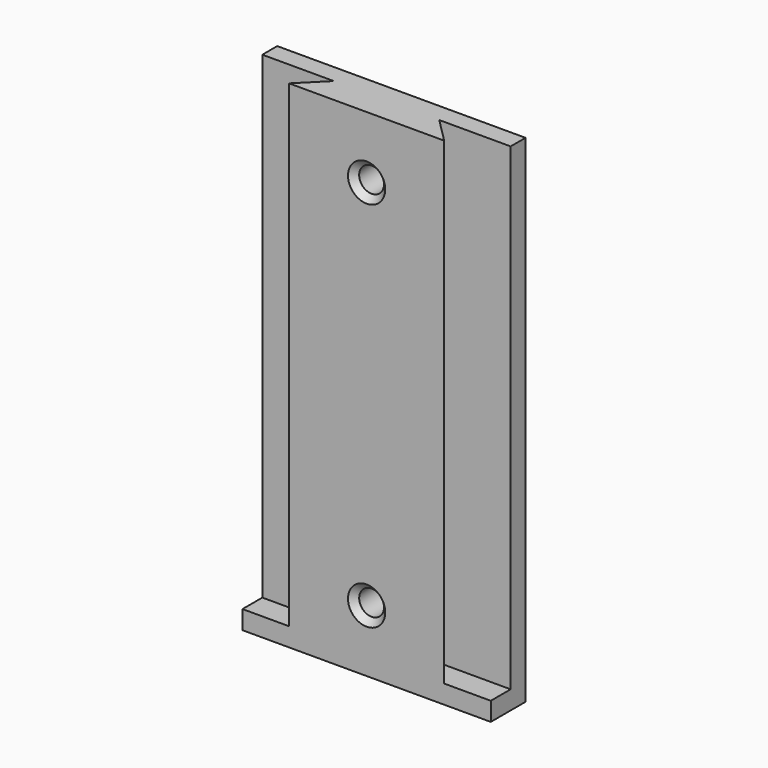
from build123d import *

# Parameters (mm, degrees)
F1_DEPTH = 80
F2_R     = 2
F3_DEPTH = 12.5
F4_SIZE  = 1
F5_W     = 40
F5_H     = 4
F6_DEPTH = 3


with BuildPart() as f1:
    # F0 (on Top) → F1 (new body)
    with BuildSketch(Plane.XY):
        Polygon((20, 1.5), (-20, 1.5), (-20, -1.5), (-8.5, -1.5), (8.5, -1.5), (20, -1.5), align=None)
        Polygon((8.5, -1.5), (-8.5, -1.5), (-12.5, -5.5), (12.5, -5.5), align=None)
    extrude(amount=F1_DEPTH)

    # F2 (on face) → F3 (cut, symmetric)
    with BuildSketch(Plane.XZ.offset(1.5)):
        with Locations((0, 70)):
            Circle(F2_R)
        with Locations((0, 10)):
            Circle(F2_R)
    extrude(amount=F3_DEPTH, both=True, mode=Mode.SUBTRACT)

    # F4
    f4_edges = [f1.edges().sort_by_distance(p)[0] for p in [
        (-2, -5.5, 70),
        (-2, -5.5, 10),
    ]]
    chamfer(f4_edges, length=F4_SIZE)

    # F5 (on Top) → F6 (join)
    with BuildSketch(Plane.XY):
        with Locations((0, -3.5)):
            Rectangle(F5_W, F5_H)
    extrude(amount=F6_DEPTH)


solid = f1.part
